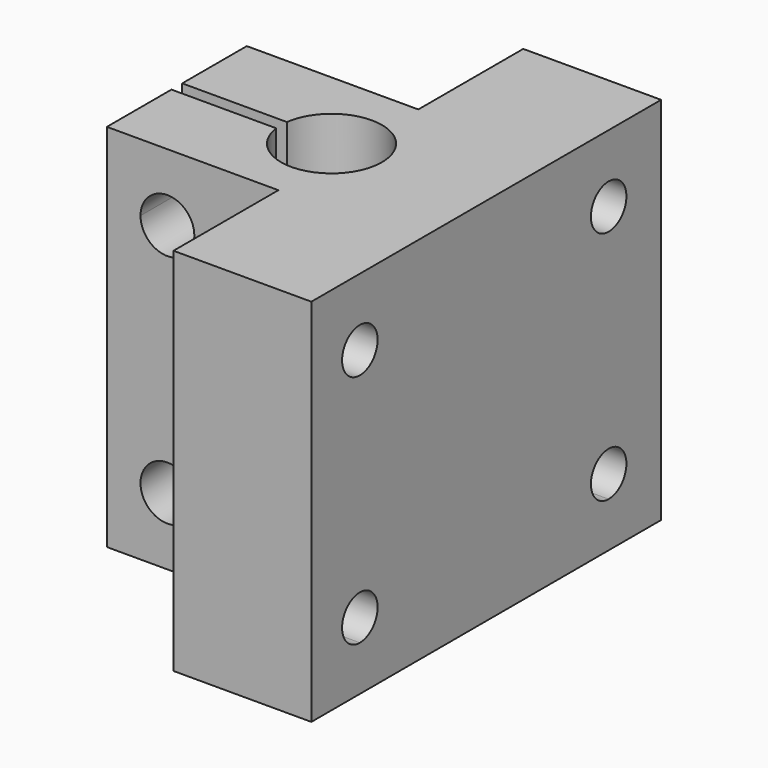
from build123d import *

# Parameters (mm, degrees)
F1_DEPTH  = 55
F2_R      = 4
F3_DEPTH  = 29.3
F5_DEPTH  = 33.2
F7_DEPTH  = 34.5
F1_FACE_R = 3.3
F9_DEPTH  = 37.2


with BuildPart() as f1:
    # F0 (on Top) → F1 (new body)
    with BuildSketch(Plane.XY):
        with BuildLine():
            Line((58.593456, -9.011728), (58.593456, 55.988272))
            Line((58.593456, 55.988272), (38.093456, 55.988272))
            Line((38.093456, 55.988272), (38.093456, 36.488272))
            Line((38.093456, 36.488272), (12.593456, 36.488272))
            Line((12.593456, 36.488272), (12.593456, 24.488272))
            Line((12.593456, 24.488272), (28.160421, 24.488272))
            ThreePointArc((28.160421, 24.488272), (43.093456, 23.488272), (28.160421, 22.488272))
            Line((28.160421, 22.488272), (12.593456, 22.488272))
            Line((12.593456, 22.488272), (12.593456, 10.488272))
            Line((12.593456, 10.488272), (38.093456, 10.488272))
            Line((38.093456, 10.488272), (38.093456, -9.011728))
            Line((38.093456, -9.011728), (58.593456, -9.011728))
        make_face()
    extrude(amount=F1_DEPTH)

    # F2 (on face) → F3 (cut)
    with BuildSketch(Plane(origin=(0, 36.488272, 0), x_dir=(-1, 0, 0), z_dir=(0, 1, 0))):
        with Locations((-21.593456, 10)):
            Circle(F2_R)
        with BuildLine():
            ThreePointArc((-17.593456, 45), (-18.765028, 47.828427), (-21.593456, 49))
            ThreePointArc((-21.593456, 49), (-24.421883, 42.171573), (-17.593456, 45))
        make_face()
    extrude(amount=-F3_DEPTH, mode=Mode.SUBTRACT)

    # F4 (on face) → F5 (cut)
    with BuildSketch(Plane(origin=(38.093456, 0, 0), x_dir=(0, -1, 0), z_dir=(-1, 0, 0))):
        with BuildLine():
            ThreePointArc((3.3, 45), (2.333452, 47.333452), (0, 48.3))
            ThreePointArc((0, 48.3), (-2.333452, 42.666548), (3.3, 45))
        make_face()
        with BuildLine():
            ThreePointArc((3.3, 10), (-2.333452, 12.333452), (0, 6.7))
            ThreePointArc((0, 6.7), (2.333452, 7.666548), (3.3, 10))
        make_face()
    extrude(amount=-F5_DEPTH, mode=Mode.SUBTRACT)

    # F6 (on face) → F7 (cut)
    with BuildSketch(Plane(origin=(38.093456, 0, 0), x_dir=(0, -1, 0), z_dir=(-1, 0, 0))):
        with BuildLine():
            ThreePointArc((-42.938272, 45), (-43.90482, 47.333452), (-46.238272, 48.3))
            ThreePointArc((-46.238272, 48.3), (-48.571725, 42.666548), (-42.938272, 45))
        make_face()
    extrude(amount=-F7_DEPTH, mode=Mode.SUBTRACT)

    # F8 (on face) + F1_face (on face) → F9 (cut)
    with BuildSketch(Plane(origin=(38.093456, 0, 0), x_dir=(0, -1, 0), z_dir=(-1, 0, 0))):
        with BuildLine():
            ThreePointArc((-42.938272, 10), (-48.571725, 12.333452), (-46.238272, 6.7))
            ThreePointArc((-46.238272, 6.7), (-43.90482, 7.666548), (-42.938272, 10))
        make_face()
    with BuildSketch(Plane(origin=(25.343456, 36.488272, 27.5), x_dir=(-1, 0, 0), z_dir=(0, 1, 0))):
        Polygon((-33.25, 27.5), (-33.25, -27.5), (-33.25, -27.5), (-33.25, 27.5), align=None)
        with Locations((-33.25, 17.5)):
            Circle(F1_FACE_R, mode=Mode.SUBTRACT)
        with Locations((-33.25, 17.5)):
            Circle(F1_FACE_R, mode=Mode.SUBTRACT)
        with Locations((-33.25, -17.5)):
            Circle(F1_FACE_R, mode=Mode.SUBTRACT)
    extrude(amount=-F9_DEPTH, mode=Mode.SUBTRACT)


solid = f1.part
